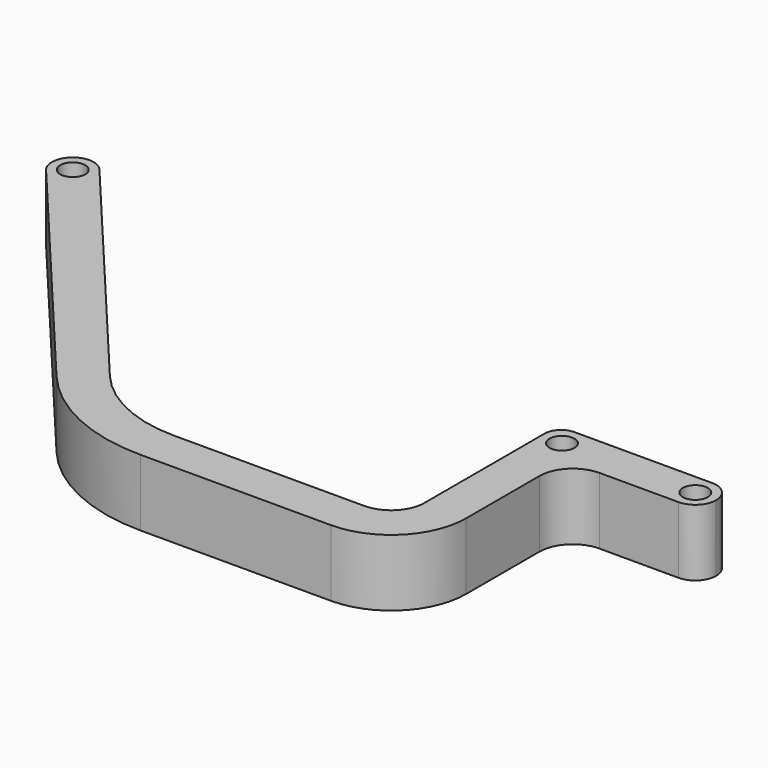
from build123d import *

# Parameters (mm, degrees)
F2_DEPTH = 25.4
F3_D     = 9.525


with BuildPart() as f2:
    # F1 (on Top) → F2 (new body)
    with BuildSketch(Plane.XY):
        with BuildLine():
            ThreePointArc((7.9375, 0), (5.6126600757, 5.6126600757), (0, 7.9375))
            ThreePointArc((0, 7.9375), (-7.9375, 0), (0, -7.9375))
            ThreePointArc((0, -7.9375), (5.6126600757, -5.6126600757), (7.9375, 0))
        make_face()
        with BuildLine():
            ThreePointArc((-144.0602539291, -68.2625), (-165.5292616255, -63.5029355815), (-182.9753116396, -50.1161105721))
            Line((-182.9753116396, -50.1161105721), (-268.4978463522, 51.8056774194))
            ThreePointArc((-268.4978463522, 51.8056774194), (-279.6804507713, 52.7840285348), (-280.6588018867, 41.6014241157))
            Line((-280.6588018867, 41.6014241157), (-195.1362671741, -60.3203638759))
            ThreePointArc((-195.1362671741, -60.3203638759), (-172.2383265307, -77.8905717007), (-144.0602539291, -84.1375))
            Line((-144.0602539291, -84.1375), (-71.4375, -84.1375))
            ThreePointArc((-71.4375, -84.1375), (-51.2319237276, -75.7680762724), (-42.8625, -55.5625))
            Line((-42.8625, -55.5625), (-42.8625, -20.6375))
            ThreePointArc((-42.8625, -20.6375), (-39.1427561211, -11.6572438789), (-30.1625, -7.9375))
            Line((-30.1625, -7.9375), (0, -7.9375))
            ThreePointArc((0, -7.9375), (-7.9375, 0), (0, 7.9375))
            Line((0, 7.9375), (-52.3875, 7.9375))
            ThreePointArc((-52.3875, 7.9375), (-56.8776280605, 6.0776280605), (-58.7375, 1.5875))
            Line((-58.7375, 1.5875), (-58.7375, -55.5625))
            ThreePointArc((-58.7375, -55.5625), (-62.4572438789, -64.5427561211), (-71.4375, -68.2625))
            Line((-71.4375, -68.2625), (-144.0602539291, -68.2625))
        make_face()
    extrude(amount=F2_DEPTH)

    # F3 (through all)
    with Locations(Plane(origin=(0, 0, 0), x_dir=(1, 0, 0), z_dir=(0, 0, -1))):
        with Locations((-274.5783241194, -46.7035507676), (0, 0), (-50.8, 0)):
            Hole(F3_D / 2)


solid = f2.part
